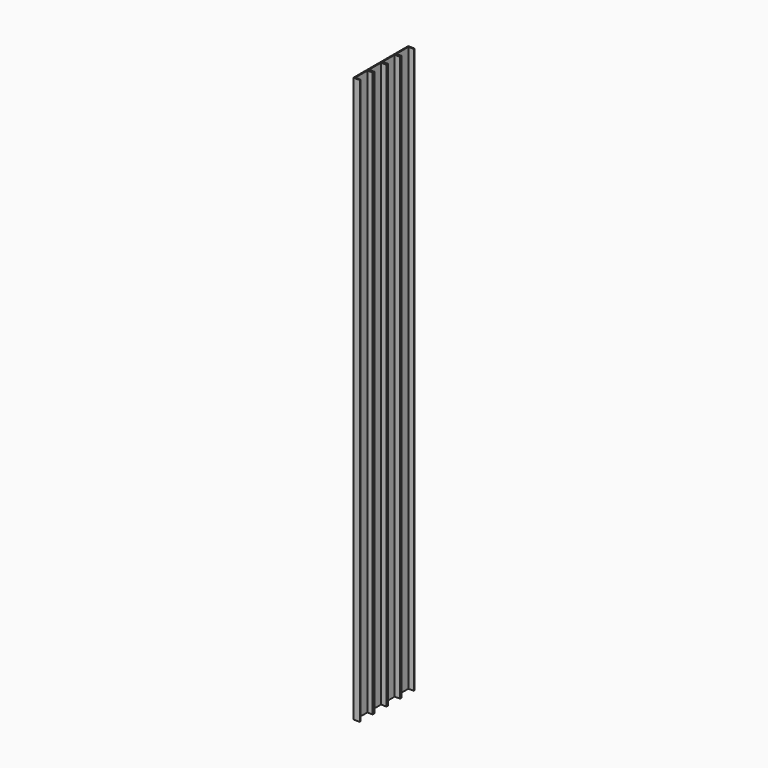
from build123d import *

# Parameters (mm, degrees)
F1_DEPTH = 6600
F2_DEPTH = 6600
F3_DEPTH = 6600
F4_DEPTH = 6600


with BuildPart() as f1:
    # F0 (on Top) → F1 (new body)
    with BuildSketch(Plane.XY):
        Polygon((0, 200), (0, 0), (75, 0), (75, 12), (12, 12), (12, 188), (75, 188), (75, 200), align=None)
    extrude(amount=F1_DEPTH)


with BuildPart() as f2:
    # F0 (on Top) → F2 (new body)
    with BuildSketch(Plane.XY):
        Polygon((0, 400), (0, 200), (75, 200), (75, 212), (12, 212), (12, 388), (75, 388), (75, 400), align=None)
    extrude(amount=F2_DEPTH)


with BuildPart() as f3:
    # F0 (on Top) → F3 (new body)
    with BuildSketch(Plane.XY):
        Polygon((0, 600), (0, 400), (75, 400), (75, 412), (12, 412), (12, 588), (75, 588), (75, 600), align=None)
    extrude(amount=F3_DEPTH)


with BuildPart() as f4:
    # F0 (on Top) → F4 (new body)
    with BuildSketch(Plane.XY):
        Polygon((0, 800), (0, 600), (75, 600), (75, 612), (12, 612), (12, 788), (75, 788), (75, 800), align=None)
    extrude(amount=F4_DEPTH)


solid = Compound([f1.part, f2.part, f3.part, f4.part])
